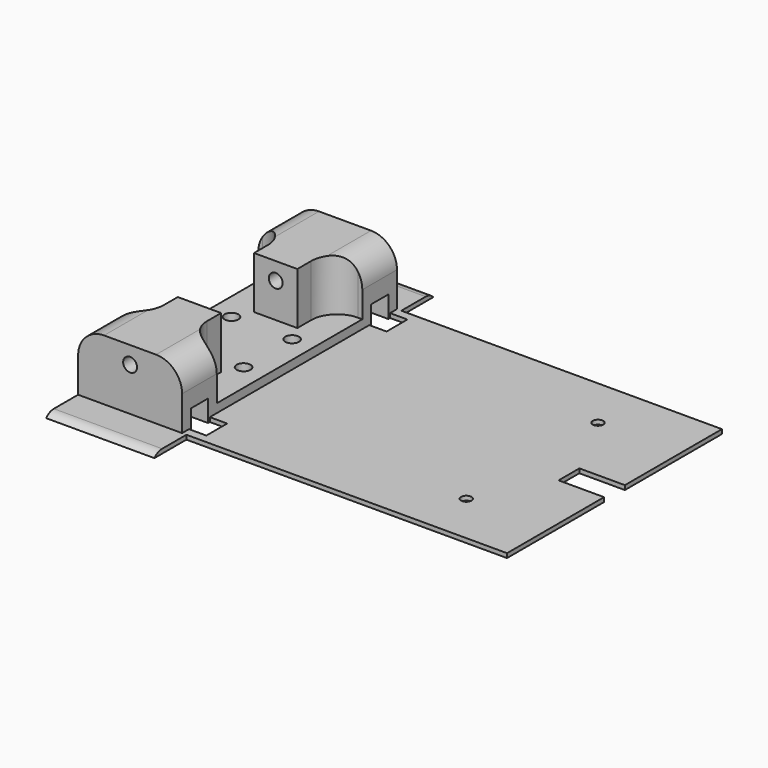
from build123d import *

# Parameters (mm, degrees)
CYLINDER455_R     = 1.2
CYLINDER455_DEPTH = 4
CYLINDER454_R     = 1.2
CYLINDER454_DEPTH = 4
BOX307_W          = 4
BOX307_H          = 6
BOX307_DEPTH      = 1
BOX308_W          = 10.5
BOX308_H          = 6
BOX308_DEPTH      = 1
BOX306_W          = 4
BOX306_H          = 6
BOX306_DEPTH      = 1
BOX305_W          = 75
BOX305_H          = 62
BOX305_DEPTH      = 1
BOX304_W          = 25
BOX304_H          = 62
BOX304_DEPTH      = 1
BOX303_W          = 25
BOX303_H          = 82
BOX303_DEPTH      = 2
BOX302_W          = 25
BOX302_H          = 82
BOX302_DEPTH      = 3
FILLET108_R       = 2.99
CYLINDER349_R     = 1.6
CYLINDER349_DEPTH = 10
CYLINDER351_R     = 1.6
CYLINDER351_DEPTH = 10
CYLINDER350_R     = 1.6
CYLINDER350_DEPTH = 10
CYLINDER347_R     = 1.6
CYLINDER347_DEPTH = 10
CYLINDER353_R     = 1.6
CYLINDER353_DEPTH = 10
BOX241_W          = 19
BOX241_H          = 5
BOX241_DEPTH      = 5
BOX242_W          = 4
BOX242_H          = 5
BOX242_DEPTH      = 8
BOX243_W          = 1.8
BOX243_H          = 7
BOX243_DEPTH      = 11
BOX244_W          = 8
BOX244_H          = 5
BOX244_DEPTH      = 8
BOX245_W          = 24
BOX245_H          = 10
BOX245_DEPTH      = 15
FILLET095_R       = 6
CYLINDER352_R     = 1.6
CYLINDER352_DEPTH = 10
BOX240_W          = 19
BOX240_H          = 5
BOX240_DEPTH      = 5
BOX239_W          = 4
BOX239_H          = 5
BOX239_DEPTH      = 8
BOX238_W          = 1.8
BOX238_H          = 7
BOX238_DEPTH      = 11
BOX236_W          = 8
BOX236_H          = 5
BOX236_DEPTH      = 8
BOX237_W          = 24
BOX237_H          = 10
BOX237_DEPTH      = 15
FILLET094_R       = 6
CYLINDER355_R     = 1.6
CYLINDER355_DEPTH = 10
BOX247_W          = 10
BOX247_H          = 10
BOX247_DEPTH      = 12
CYLINDER354_R     = 1.6
CYLINDER354_DEPTH = 10
BOX246_W          = 10
BOX246_H          = 10
BOX246_DEPTH      = 12
BOX235_W          = 24
BOX235_H          = 42
BOX235_DEPTH      = 3
FILLET109_R       = 6


with BuildPart() as cylinder455:
    # Cylinder455 → Cylinder455 (new body)
    with BuildSketch(Plane(origin=(125, 50, 15), x_dir=(1, 0, 0), z_dir=(0, 0, 1))):
        Circle(CYLINDER455_R)
    extrude(amount=CYLINDER455_DEPTH)


with BuildPart() as fusion409:
    # Cylinder454 → Cylinder454 (new body)
    with BuildSketch(Plane(origin=(125, 12, 15), x_dir=(1, 0, 0), z_dir=(0, 0, 1))):
        Circle(CYLINDER454_R)
    extrude(amount=CYLINDER454_DEPTH)

    # Fusion409: union Cylinder455
    add(cylinder455.part)


with BuildPart() as fusion409_1:
    # Fusion409 placement: moved
    add(fusion409.part.moved(Location((0, 0, 1))))


with BuildPart() as cube378:
    # Box307 → Box307 (new body)
    with BuildSketch(Plane(origin=(69, 54, 19), x_dir=(1, 0, 0), z_dir=(0, 0, 1))):
        with Locations((2, 3)):
            Rectangle(BOX307_W, BOX307_H)
    extrude(amount=BOX307_DEPTH)


with BuildPart() as cube379:
    # Box308 → Box308 (new body)
    with BuildSketch(Plane(origin=(133.5, 28, 19), x_dir=(1, 0, 0), z_dir=(0, 0, 1))):
        with Locations((5.25, 3)):
            Rectangle(BOX308_W, BOX308_H)
    extrude(amount=BOX308_DEPTH)


with BuildPart() as fusion410:
    # Box306 → Box306 (new body)
    with BuildSketch(Plane(origin=(69, 2, 19), x_dir=(1, 0, 0), z_dir=(0, 0, 1))):
        with Locations((2, 3)):
            Rectangle(BOX306_W, BOX306_H)
    extrude(amount=BOX306_DEPTH)

    # Fusion408: union Cube378, Cube379
    add(cube378.part)
    add(cube379.part)

    # Fusion410: union Fusion409
    add(fusion409_1.part)


with BuildPart() as cut303:
    # Box305 → Box305 (new body)
    with BuildSketch(Plane(origin=(69, 0, 19), x_dir=(1, 0, 0), z_dir=(0, 0, 1))):
        with Locations((37.5, 31)):
            Rectangle(BOX305_W, BOX305_H)
    extrude(amount=BOX305_DEPTH)

    # Cut303: cut Fusion410
    add(fusion410.part, mode=Mode.SUBTRACT)


with BuildPart() as cube375:
    # Box304 → Box304 (new body)
    with BuildSketch(Plane(origin=(45, 0, 19), x_dir=(1, 0, 0), z_dir=(0, 0, 1))):
        with Locations((12.5, 31)):
            Rectangle(BOX304_W, BOX304_H)
    extrude(amount=BOX304_DEPTH)


with BuildPart() as cube374:
    # Box303 → Box303 (new body)
    with BuildSketch(Plane(origin=(45, -10, 17), x_dir=(1, 0, 0), z_dir=(0, 0, 1))):
        with Locations((12.5, 41)):
            Rectangle(BOX303_W, BOX303_H)
    extrude(amount=BOX303_DEPTH)


with BuildPart() as fusion411:
    # Box302 → Box302 (new body)
    with BuildSketch(Plane(origin=(45, -10, 17), x_dir=(1, 0, 0), z_dir=(0, 0, 1))):
        with Locations((12.5, 41)):
            Rectangle(BOX302_W, BOX302_H)
    extrude(amount=BOX302_DEPTH)

    # Fillet108
    fillet108_edges = [fusion411.edges().sort_by_distance(p)[0] for p in [
        (57.5, -10, 20),
        (57.5, 72, 20),
    ]]
    fillet(fillet108_edges, radius=FILLET108_R)

    # Cut301: cut Cube374
    add(cube374.part, mode=Mode.SUBTRACT)

    # Cut302: cut Cube375
    add(cube375.part, mode=Mode.SUBTRACT)

    # Fusion411: union Cut303
    add(cut303.part)


with BuildPart() as cylinder349:
    # Cylinder349 → Cylinder349 (new body)
    with BuildSketch(Plane(origin=(50, 24, 12), x_dir=(1, 0, 0), z_dir=(0, 0, 1))):
        Circle(CYLINDER349_R)
    extrude(amount=CYLINDER349_DEPTH)


with BuildPart() as cylinder351:
    # Cylinder351 → Cylinder351 (new body)
    with BuildSketch(Plane(origin=(64, 24, 12), x_dir=(1, 0, 0), z_dir=(0, 0, 1))):
        Circle(CYLINDER351_R)
    extrude(amount=CYLINDER351_DEPTH)


with BuildPart() as cylinder350:
    # Cylinder350 → Cylinder350 (new body)
    with BuildSketch(Plane(origin=(64, 38, 12), x_dir=(1, 0, 0), z_dir=(0, 0, 1))):
        Circle(CYLINDER350_R)
    extrude(amount=CYLINDER350_DEPTH)


with BuildPart() as fusion300:
    # Cylinder347 → Cylinder347 (new body)
    with BuildSketch(Plane(origin=(50, 38, 12), x_dir=(1, 0, 0), z_dir=(0, 0, 1))):
        Circle(CYLINDER347_R)
    extrude(amount=CYLINDER347_DEPTH)

    # Fusion300: union Cylinder349, Cylinder351, Cylinder350
    add(cylinder349.part)
    add(cylinder351.part)
    add(cylinder350.part)


with BuildPart() as cylinder353:
    # Cylinder353 → Cylinder353 (new body)
    with BuildSketch(Plane(origin=(57, 52, 30), x_dir=(1, 0, 0), z_dir=(0, -1, 0))):
        Circle(CYLINDER353_R)
    extrude(amount=CYLINDER353_DEPTH)


with BuildPart() as cube321:
    # Box241 → Box241 (new body)
    with BuildSketch(Plane(origin=(54, 44.5, 19), x_dir=(1, 0, 0), z_dir=(0, 0, 1))):
        with Locations((9.5, 2.5)):
            Rectangle(BOX241_W, BOX241_H)
    extrude(amount=BOX241_DEPTH)


with BuildPart() as cube322:
    # Box242 → Box242 (new body)
    with BuildSketch(Plane(origin=(54, 44.5, 19), x_dir=(1, 0, 0), z_dir=(0, 0, 1))):
        with Locations((2, 2.5)):
            Rectangle(BOX242_W, BOX242_H)
    extrude(amount=BOX242_DEPTH)


with BuildPart() as cube323:
    # Box243 → Box243 (new body)
    with BuildSketch(Plane(origin=(53, 43.5, 19), x_dir=(1, 0, 0), z_dir=(0, 0, 1))):
        with Locations((0.9, 3.5)):
            Rectangle(BOX243_W, BOX243_H)
    extrude(amount=BOX243_DEPTH)


with BuildPart() as cube324:
    # Box244 → Box244 (new body)
    with BuildSketch(Plane(origin=(45, 44.5, 19), x_dir=(1, 0, 0), z_dir=(0, 0, 1))):
        with Locations((4, 2.5)):
            Rectangle(BOX244_W, BOX244_H)
    extrude(amount=BOX244_DEPTH)


with BuildPart() as fillet095:
    # Box245 → Box245 (new body)
    with BuildSketch(Plane(origin=(45, 42, 19), x_dir=(1, 0, 0), z_dir=(0, 0, 1))):
        with Locations((12, 5)):
            Rectangle(BOX245_W, BOX245_H)
    extrude(amount=BOX245_DEPTH)

    # Cut250: cut Cube324
    add(cube324.part, mode=Mode.SUBTRACT)

    # Cut254: cut Cube323
    add(cube323.part, mode=Mode.SUBTRACT)

    # Cut253: cut Cube322
    add(cube322.part, mode=Mode.SUBTRACT)

    # Cut251: cut Cube321
    add(cube321.part, mode=Mode.SUBTRACT)

    # Cut252: cut Cylinder353
    add(cylinder353.part, mode=Mode.SUBTRACT)

    # Fillet095
    fillet095_edges = [fillet095.edges().sort_by_distance(p)[0] for p in [
        (45, 47, 34),
        (69, 47, 34),
    ]]
    fillet(fillet095_edges, radius=FILLET095_R)


with BuildPart() as fillet095_1:
    # Fillet095 placement: moved
    add(fillet095.part.moved(Location((0, 10, 0))))


with BuildPart() as cylinder352:
    # Cylinder352 → Cylinder352 (new body)
    with BuildSketch(Plane(origin=(57, 52, 30), x_dir=(1, 0, 0), z_dir=(0, -1, 0))):
        Circle(CYLINDER352_R)
    extrude(amount=CYLINDER352_DEPTH)


with BuildPart() as cube320:
    # Box240 → Box240 (new body)
    with BuildSketch(Plane(origin=(54, 44.5, 19), x_dir=(1, 0, 0), z_dir=(0, 0, 1))):
        with Locations((9.5, 2.5)):
            Rectangle(BOX240_W, BOX240_H)
    extrude(amount=BOX240_DEPTH)


with BuildPart() as cube319:
    # Box239 → Box239 (new body)
    with BuildSketch(Plane(origin=(54, 44.5, 19), x_dir=(1, 0, 0), z_dir=(0, 0, 1))):
        with Locations((2, 2.5)):
            Rectangle(BOX239_W, BOX239_H)
    extrude(amount=BOX239_DEPTH)


with BuildPart() as cube318:
    # Box238 → Box238 (new body)
    with BuildSketch(Plane(origin=(53, 43.5, 19), x_dir=(1, 0, 0), z_dir=(0, 0, 1))):
        with Locations((0.9, 3.5)):
            Rectangle(BOX238_W, BOX238_H)
    extrude(amount=BOX238_DEPTH)


with BuildPart() as cube316:
    # Box236 → Box236 (new body)
    with BuildSketch(Plane(origin=(45, 44.5, 19), x_dir=(1, 0, 0), z_dir=(0, 0, 1))):
        with Locations((4, 2.5)):
            Rectangle(BOX236_W, BOX236_H)
    extrude(amount=BOX236_DEPTH)


with BuildPart() as fillet094:
    # Box237 → Box237 (new body)
    with BuildSketch(Plane(origin=(45, 42, 19), x_dir=(1, 0, 0), z_dir=(0, 0, 1))):
        with Locations((12, 5)):
            Rectangle(BOX237_W, BOX237_H)
    extrude(amount=BOX237_DEPTH)

    # Cut245: cut Cube316
    add(cube316.part, mode=Mode.SUBTRACT)

    # Cut246: cut Cube318
    add(cube318.part, mode=Mode.SUBTRACT)

    # Cut247: cut Cube319
    add(cube319.part, mode=Mode.SUBTRACT)

    # Cut248: cut Cube320
    add(cube320.part, mode=Mode.SUBTRACT)

    # Cut249: cut Cylinder352
    add(cylinder352.part, mode=Mode.SUBTRACT)

    # Fillet094
    fillet094_edges = [fillet094.edges().sort_by_distance(p)[0] for p in [
        (45, 47, 34),
        (69, 47, 34),
    ]]
    fillet(fillet094_edges, radius=FILLET094_R)


with BuildPart() as fillet094_1:
    # Fillet094 placement: moved
    add(fillet094.part.moved(Location((0, -42, 0))))


with BuildPart() as cylinder355:
    # Cylinder355 → Cylinder355 (new body)
    with BuildSketch(Plane(origin=(57, 52, 30), x_dir=(1, 0, 0), z_dir=(0, -1, 0))):
        Circle(CYLINDER355_R)
    extrude(amount=CYLINDER355_DEPTH)


with BuildPart() as cut256:
    # Box247 → Box247 (new body)
    with BuildSketch(Plane(origin=(52, 42, 22), x_dir=(1, 0, 0), z_dir=(0, 0, 1))):
        with Locations((5, 5)):
            Rectangle(BOX247_W, BOX247_H)
    extrude(amount=BOX247_DEPTH)

    # Cut256: cut Cylinder355
    add(cylinder355.part, mode=Mode.SUBTRACT)


with BuildPart() as cut256_1:
    # Cut256 placement: moved
    add(cut256.part.moved(Location((0, -32, 0))))


with BuildPart() as cylinder354:
    # Cylinder354 → Cylinder354 (new body)
    with BuildSketch(Plane(origin=(57, 52, 30), x_dir=(1, 0, 0), z_dir=(0, -1, 0))):
        Circle(CYLINDER354_R)
    extrude(amount=CYLINDER354_DEPTH)


with BuildPart() as cut255:
    # Box246 → Box246 (new body)
    with BuildSketch(Plane(origin=(52, 42, 22), x_dir=(1, 0, 0), z_dir=(0, 0, 1))):
        with Locations((5, 5)):
            Rectangle(BOX246_W, BOX246_H)
    extrude(amount=BOX246_DEPTH)

    # Cut255: cut Cylinder354
    add(cylinder354.part, mode=Mode.SUBTRACT)


with BuildPart() as fake_cylinder_holder_wide:
    # Box235 → Box235 (new body)
    with BuildSketch(Plane(origin=(45, 10, 19), x_dir=(1, 0, 0), z_dir=(0, 0, 1))):
        with Locations((12, 21)):
            Rectangle(BOX235_W, BOX235_H)
    extrude(amount=BOX235_DEPTH)

    # Fusion301: union Fillet095, Fillet094, Cut256, Cut255
    add(fillet095_1.part)
    add(fillet094_1.part)
    add(cut256_1.part)
    add(cut255.part)

    # Cut257: cut Fusion300
    add(fusion300.part, mode=Mode.SUBTRACT)

    # Fillet109
    fillet109_edges = [fake_cylinder_holder_wide.edges().sort_by_distance(p)[0] for p in [
        (62, 52, 28),
        (62, 10, 28),
        (52, 10, 28),
        (52, 52, 28),
    ]]
    fillet(fillet109_edges, radius=FILLET109_R)

    # Fusion412: union Fusion411
    add(fusion411.part)


solid = fake_cylinder_holder_wide.part
